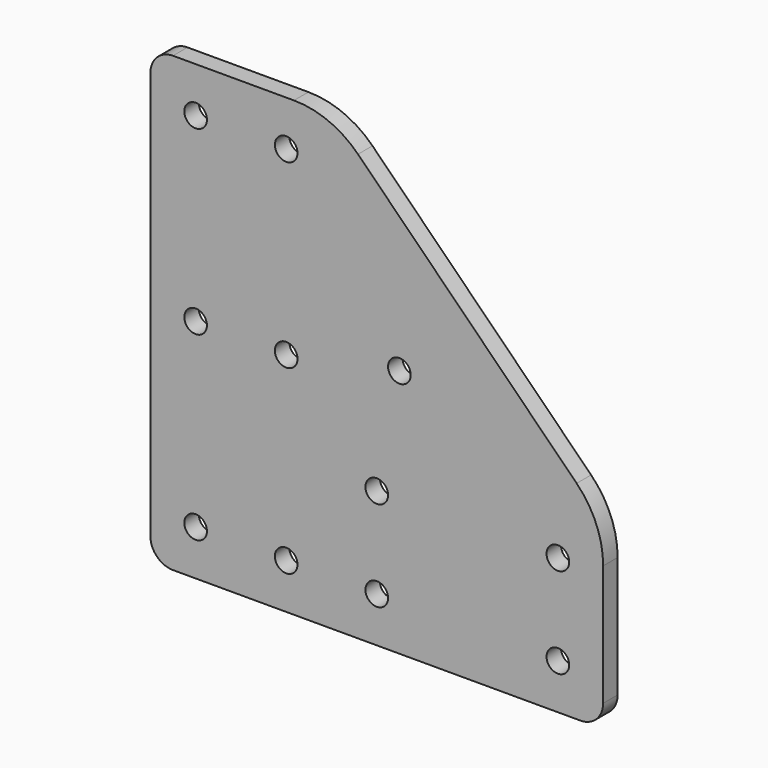
from build123d import *

# Parameters (mm, degrees)
F0_R     = 2.5
F1_DEPTH = 4


with BuildPart() as f1:
    # F0 (on Front) → F1 (new body)
    with BuildSketch(Plane.XZ):
        with BuildLine():
            Line((0, 95), (0, 5))
            ThreePointArc((0, 5), (1.464466, 1.464466), (5, 0))
            Line((5, 0), (95, 0))
            ThreePointArc((95, 0), (98.535534, 1.464466), (100, 5))
            Line((100, 5), (100, 31.715729))
            ThreePointArc((100, 31.715729), (98.477591, 39.369397), (94.142136, 45.857864))
            Line((94.142136, 45.857864), (45.857864, 94.142136))
            ThreePointArc((45.857864, 94.142136), (39.369397, 98.477591), (31.715729, 100))
            Line((31.715729, 100), (5, 100))
            ThreePointArc((5, 100), (1.464466, 98.535534), (0, 95))
        make_face()
        with Locations((10, 10)):
            Circle(F0_R, mode=Mode.SUBTRACT)
        with Locations((30, 10)):
            Circle(F0_R, mode=Mode.SUBTRACT)
        with Locations((50, 10)):
            Circle(F0_R, mode=Mode.SUBTRACT)
        with Locations((90, 10)):
            Circle(F0_R, mode=Mode.SUBTRACT)
        with Locations((50, 30)):
            Circle(F0_R, mode=Mode.SUBTRACT)
        with Locations((90, 30)):
            Circle(F0_R, mode=Mode.SUBTRACT)
        with Locations((10, 50)):
            Circle(F0_R, mode=Mode.SUBTRACT)
        with Locations((30, 50)):
            Circle(F0_R, mode=Mode.SUBTRACT)
        with Locations((10, 90)):
            Circle(F0_R, mode=Mode.SUBTRACT)
        with Locations((30, 90)):
            Circle(F0_R, mode=Mode.SUBTRACT)
        with Locations((55, 55)):
            Circle(F0_R, mode=Mode.SUBTRACT)
    extrude(amount=F1_DEPTH)


solid = f1.part
